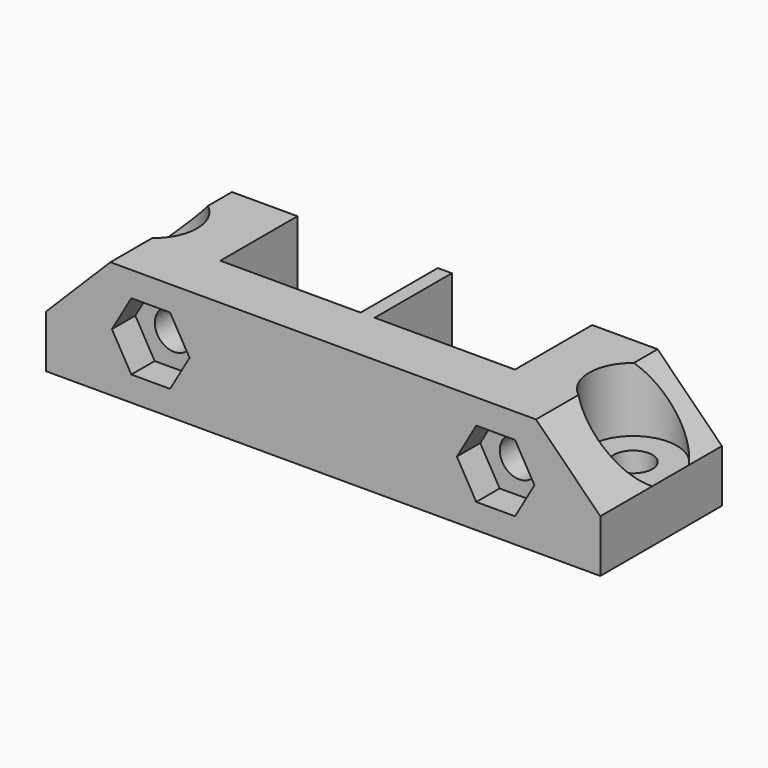
from build123d import *

# Parameters (mm, degrees)
SKETCH_W             = 47.4
SKETCH_H             = 13
SKETCH_R             = 1.65
PAD_DEPTH            = 10
SKETCH001_R          = 3.75
POCKET_DEPTH         = 5.5
SKETCH002_W          = 12
SKETCH002_H          = 10
POCKET001_DEPTH      = 100
POCKET001_DEPTH_BACK = -2.75
SKETCH003_R          = 1.65
POCKET002_DEPTH      = 5.501
POCKET002_DEPTH_BACK = -7.501
POCKET003_DEPTH      = 5.501
POCKET003_DEPTH_BACK = -7.501
POCKET004_DEPTH      = 2.501


with BuildPart() as part:
    # Sketch → Pad (new body)
    with BuildSketch(Plane.XY):
        with Locations((0, -1)):
            Rectangle(SKETCH_W, SKETCH_H)
        with Locations((-20.5, 0)):
            Circle(SKETCH_R, mode=Mode.SUBTRACT)
        with Locations((20.5, 0)):
            Circle(SKETCH_R, mode=Mode.SUBTRACT)
    extrude(amount=-PAD_DEPTH)

    # Sketch001 → Pocket (cut)
    with BuildSketch(Plane.XY):
        with Locations((-20.481411, -0.058129)):
            Circle(SKETCH001_R)
        with Locations((20.5, 0)):
            Circle(SKETCH001_R)
    extrude(amount=-POCKET_DEPTH, mode=Mode.SUBTRACT)

    # Sketch002 → Pocket001 (cut, two sides)
    with BuildSketch(Plane.XZ) as pocket001_sk:
        with Locations((-6.6, -5)):
            Rectangle(SKETCH002_W, SKETCH002_H)
        with Locations((6.6, -5)):
            Rectangle(SKETCH002_W, SKETCH002_H)
    extrude(amount=-POCKET001_DEPTH, mode=Mode.SUBTRACT)
    extrude(pocket001_sk.sketch, amount=-POCKET001_DEPTH_BACK, mode=Mode.SUBTRACT)

    # Sketch003 → Pocket002 (cut, two sides)
    with BuildSketch(Plane.XZ) as pocket002_sk:
        with Locations((-14.75, -5)):
            Circle(SKETCH003_R)
        with Locations((14.75, -5)):
            Circle(SKETCH003_R)
    extrude(amount=-POCKET002_DEPTH, mode=Mode.SUBTRACT)
    extrude(pocket002_sk.sketch, amount=-POCKET002_DEPTH_BACK, mode=Mode.SUBTRACT)

    # Sketch004 → Pocket003 (cut, two sides)
    with BuildSketch(Plane.XZ) as pocket003_sk:
        Polygon((-18.2, 0), (-23.7, -5.5), (-23.7, 0), align=None)
        Polygon((18.2, 0), (23.7, 0), (23.7, -5.5), align=None)
    extrude(amount=-POCKET003_DEPTH, mode=Mode.SUBTRACT)
    extrude(pocket003_sk.sketch, amount=-POCKET003_DEPTH_BACK, mode=Mode.SUBTRACT)

    # Sketch005 (on DatumPlane) → Pocket004 (cut, through all)
    with BuildSketch(Plane.XZ.offset(5)):
        Polygon((-13.090118, -7.875), (-11.430236, -5), (-13.090118, -2.125), (-16.409882, -2.125), (-18.069764, -5), (-16.409882, -7.875), align=None)
        Polygon((16.409882, -7.875), (18.069764, -5), (16.409882, -2.125), (13.090118, -2.125), (11.430236, -5), (13.090118, -7.875), align=None)
    extrude(amount=POCKET004_DEPTH, mode=Mode.SUBTRACT)


solid = part.part
